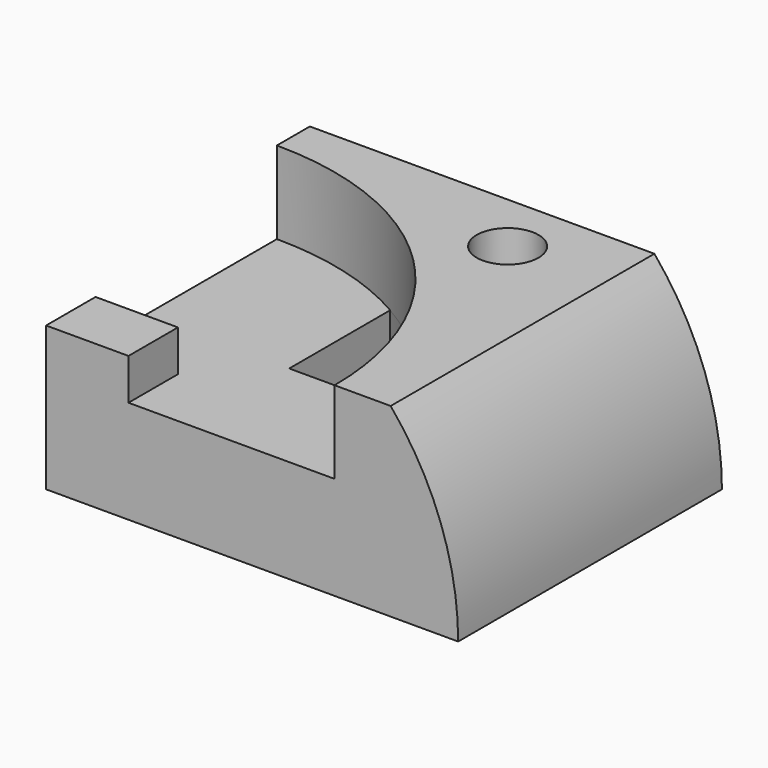
from build123d import *

# Parameters (mm, degrees)
F0_W      = 100
F0_H      = 80
F1_DEPTH  = 45
F3_DEPTH  = 20
F4_W      = 20
F4_H      = 15
F5_DEPTH  = 10
F7_DEPTH  = 25.001
F8_R      = 7.5
F9_DEPTH  = 30
F11_DEPTH = 80.001


with BuildPart() as f1:
    # F0 (on Top) → F1 (new body)
    with BuildSketch(Plane.XY):
        with Locations((50, 40)):
            Rectangle(F0_W, F0_H)
    extrude(amount=F1_DEPTH)

    # F2 (on face) → F3 (cut)
    with BuildSketch(Plane.XY.offset(45)):
        with BuildLine():
            Line((0, 0), (70, 0))
            ThreePointArc((70, 0), (49.4974746831, 49.4974746831), (0, 70))
            Line((0, 70), (0, 0))
        make_face()
    extrude(amount=-F3_DEPTH, mode=Mode.SUBTRACT)

    # F4 (on face) → F5 (join)
    with BuildSketch(Plane.XY.offset(25)):
        with Locations((10, 7.5)):
            Rectangle(F4_W, F4_H)
    extrude(amount=F5_DEPTH)

    # F6 (on face) → F7 (cut, through all)
    with BuildSketch(Plane.XY.offset(25)):
        with BuildLine():
            Line((35, 60.6217782649), (35, 30))
            Line((35, 30), (63.2455532034, 30))
            ThreePointArc((63.2455532034, 30), (51.4535762322, 47.4608206094), (35, 60.6217782649))
        make_face()
    extrude(amount=-F7_DEPTH, mode=Mode.SUBTRACT)

    # F8 (on face) → F9 (cut)
    with BuildSketch(Plane.XY.offset(45)):
        with Locations((60, 65)):
            Circle(F8_R)
    extrude(amount=-F9_DEPTH, mode=Mode.SUBTRACT)

    # F10 (on face) → F11 (cut, through all)
    with BuildSketch(Plane.XZ):
        with BuildLine():
            ThreePointArc((83.6190264738, 45), (95.7773967757, 23.944395449), (100, 0))
            Line((100, 0), (100, 45))
            Line((100, 45), (83.6190264738, 45))
        make_face()
    extrude(amount=-F11_DEPTH, mode=Mode.SUBTRACT)


solid = f1.part
